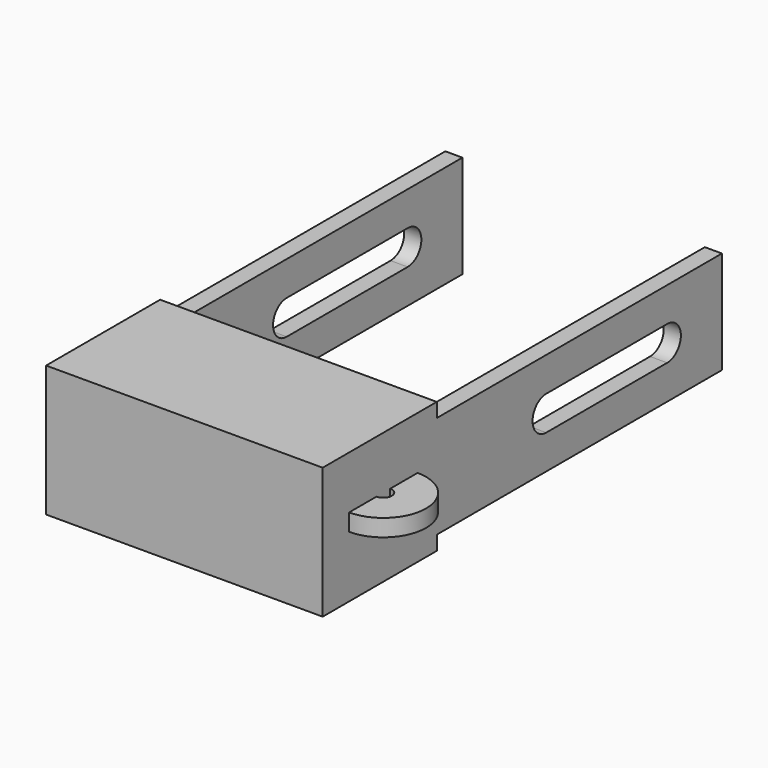
from build123d import *

# Parameters (mm, degrees)
F1_DEPTH = 19.4
F2_DEPTH = 1.2
F3_W     = 25
F3_H     = 7.2
F4_DEPTH = 1.2
F5_W     = 16.95
F5_H     = 7.1
F6_DEPTH = 9
F7_W     = 2.4
F7_H     = 1.2
F8_ANGLE = 180


with BuildPart() as f1:
    # F0 (on Right) → F1 (new body)
    with BuildSketch(Plane.YZ):
        Polygon((-8.668413, 6.839403), (-18.668413, 6.839403), (-18.668413, -2.360597), (-8.668413, -2.360597), (-8.668413, -1.360597), (-8.668413, 2.239403), (-8.668413, 5.839403), align=None)
    extrude(amount=F1_DEPTH)

    # F0 (on Right) → F2 (join)
    with BuildSketch(Plane.YZ):
        Polygon((-8.668413, 6.839403), (-18.668413, 6.839403), (-18.668413, -2.360597), (-8.668413, -2.360597), (-8.668413, -1.360597), (-8.668413, 2.239403), (-8.668413, 5.839403), align=None)
        Polygon((16.331587, 5.839403), (-8.668413, 5.839403), (-8.668413, 2.239403), (-8.668413, -1.360597), (16.331587, -1.360597), align=None)
        with BuildLine():
            ThreePointArc((11.531587, 3.439403), (12.731587, 2.239403), (11.531587, 1.039403))
            Line((11.531587, 1.039403), (0.931587, 1.039403))
            ThreePointArc((0.931587, 1.039403), (-0.268413, 2.239403), (0.931587, 3.439403))
            Line((0.931587, 3.439403), (11.531587, 3.439403))
        make_face(mode=Mode.SUBTRACT)
    extrude(amount=F2_DEPTH)

    # F3 (on face) → F4 (join)
    with BuildSketch(Plane.YZ.offset(19.4)):
        with Locations((3.831587, 2.239403)):
            Rectangle(F3_W, F3_H)
        with BuildLine():
            ThreePointArc((11.531587, 3.439403), (12.731587, 2.239403), (11.531587, 1.039403))
            Line((11.531587, 1.039403), (0.931587, 1.039403))
            ThreePointArc((0.931587, 1.039403), (-0.268413, 2.239403), (0.931587, 3.439403))
            Line((0.931587, 3.439403), (11.531587, 3.439403))
        make_face(mode=Mode.SUBTRACT)
    extrude(amount=-F4_DEPTH)

    # F5 (on face) → F6 (cut)
    with BuildSketch(Plane(origin=(0, -8.668413, 0), x_dir=(-1, 0, 0), z_dir=(0, 1, 0))):
        with Locations((-9.725, 2.239403)):
            Rectangle(F5_W, F5_H)
    extrude(amount=-F6_DEPTH, mode=Mode.SUBTRACT)

    # F7 (on face) → F8 (revolve)
    with BuildSketch(Plane.YZ.offset(19.4)):
        with Locations((-11.550809, 2.537114)):
            Rectangle(F7_W, F7_H)
    revolve(axis=Axis((19.4, -13.350809, 2.537114), (0, 0, -1)), revolution_arc=F8_ANGLE)


solid = f1.part
